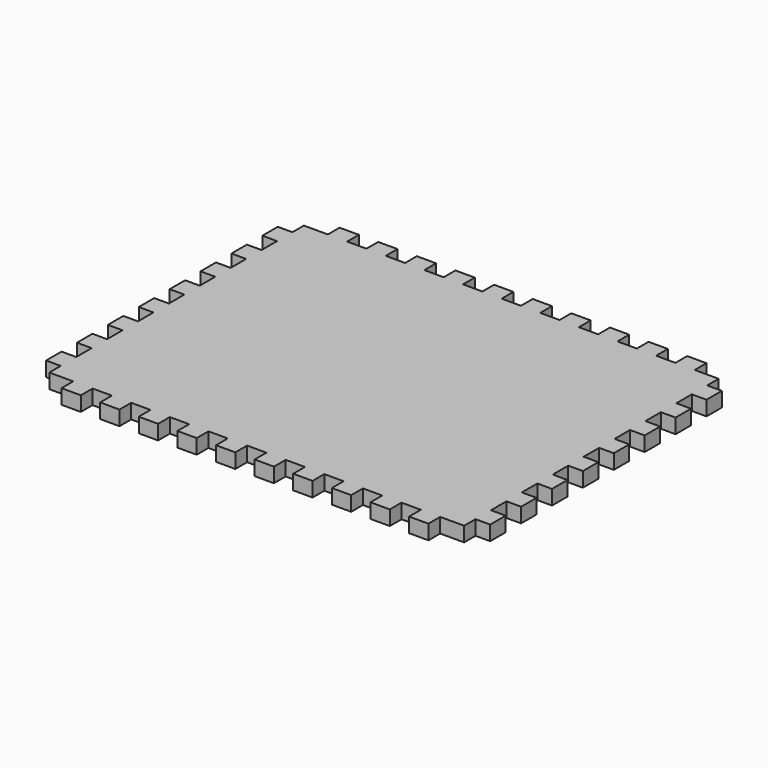
from build123d import *

# Parameters (mm, degrees)
F1_DEPTH = 9.652


with BuildPart() as f1:
    # F0 (on Top) → F1 (new body)
    with BuildSketch(Plane.XY):
        Polygon((38.1, 0), (25.4, 0), (25.4, -9.652), (9.652, -9.652), (9.652, -19.05), (0, -19.05), (0, -31.75), (9.652, -31.75), (9.652, -44.45), (0, -44.45), (0, -57.15), (9.652, -57.15), (9.652, -69.85), (0, -69.85), (0, -82.55), (9.652, -82.55), (9.652, -95.25), (0, -95.25), (0, -107.95), (9.652, -107.95), (9.652, -120.65), (0, -120.65), (0, -133.35), (9.652, -133.35), (9.652, -146.05), (0, -146.05), (0, -158.75), (9.652, -158.75), (9.652, -171.45), (0, -171.45), (0, -184.15), (9.652, -184.15), (9.652, -196.85), (0, -196.85), (0, -209.55), (9.652, -209.55), (9.652, -218.948), (25.4, -218.948), (25.4, -228.6), (38.1, -228.6), (38.1, -218.948), (50.8, -218.948), (50.8, -228.6), (63.5, -228.6), (63.5, -218.948), (76.2, -218.948), (76.2, -228.6), (88.9, -228.6), (88.9, -218.948), (101.6, -218.948), (101.6, -228.6), (114.3, -228.6), (114.3, -218.948), (127, -218.948), (127, -228.6), (139.7, -228.6), (139.7, -218.948), (152.4, -218.948), (152.4, -228.6), (165.1, -228.6), (165.1, -218.948), (177.8, -218.948), (177.8, -228.6), (190.5, -228.6), (190.5, -218.948), (203.2, -218.948), (203.2, -228.6), (215.9, -228.6), (215.9, -218.948), (228.6, -218.948), (228.6, -228.6), (241.3, -228.6), (241.3, -218.948), (254, -218.948), (254, -228.6), (266.7, -228.6), (266.7, -218.948), (282.448, -218.948), (282.448, -209.55), (292.1, -209.55), (292.1, -196.85), (282.448, -196.85), (282.448, -184.15), (292.1, -184.15), (292.1, -171.45), (282.448, -171.45), (282.448, -158.75), (292.1, -158.75), (292.1, -146.05), (282.448, -146.05), (282.448, -133.35), (292.1, -133.35), (292.1, -120.65), (282.448, -120.65), (282.448, -107.95), (292.1, -107.95), (292.1, -95.25), (282.448, -95.25), (282.448, -82.55), (292.1, -82.55), (292.1, -69.85), (282.448, -69.85), (282.448, -57.15), (292.1, -57.15), (292.1, -44.45), (282.448, -44.45), (282.448, -31.75), (292.1, -31.75), (292.1, -19.05), (282.448, -19.05), (282.448, -9.652), (266.7, -9.652), (266.7, 0), (254, 0), (254, -9.652), (241.3, -9.652), (241.3, 0), (228.6, 0), (228.6, -9.652), (215.9, -9.652), (215.9, 0), (203.2, 0), (203.2, -9.652), (190.5, -9.652), (190.5, 0), (177.8, 0), (177.8, -9.652), (165.1, -9.652), (165.1, 0), (152.4, 0), (152.4, -9.652), (139.7, -9.652), (139.7, 0), (127, 0), (127, -9.652), (114.3, -9.652), (114.3, 0), (101.6, 0), (101.6, -9.652), (88.9, -9.652), (88.9, 0), (76.2, 0), (76.2, -9.652), (63.5, -9.652), (63.5, 0), (50.8, 0), (50.8, -9.652), (38.1, -9.652), align=None)
    extrude(amount=F1_DEPTH)


solid = f1.part
